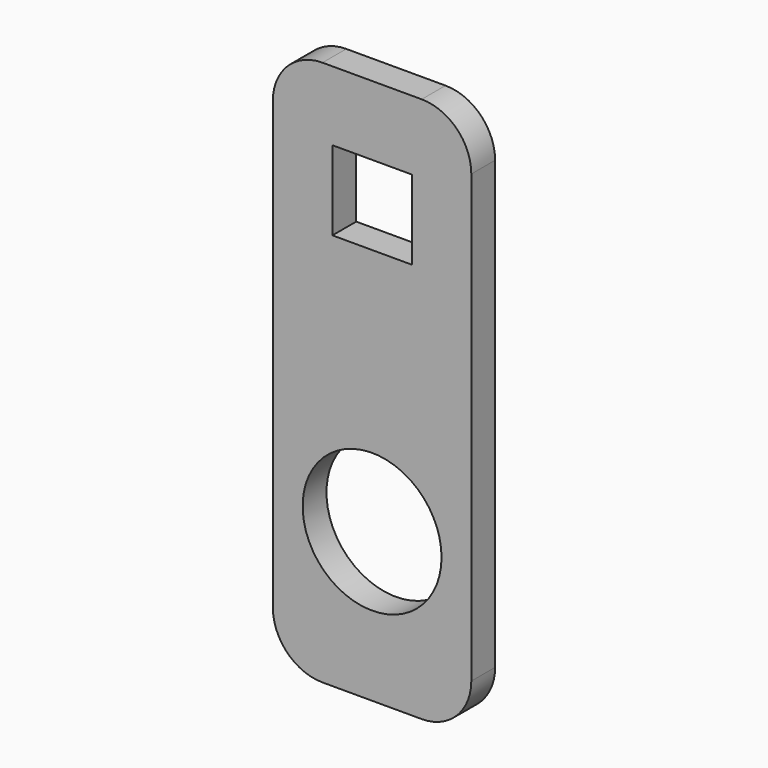
from build123d import *

# Parameters (mm, degrees)
F0_R     = 7
F0_W     = 8
F0_H     = 8
F1_DEPTH = 3


with BuildPart() as f1:
    # F0 (on Front) → F1 (new body)
    with BuildSketch(Plane.XZ):
        with BuildLine():
            ThreePointArc((10, 20), (8.535534, 23.535534), (5, 25))
            Line((5, 25), (-5, 25))
            ThreePointArc((-5, 25), (-8.535534, 23.535534), (-10, 20))
            Line((-10, 20), (-10, -25))
            ThreePointArc((-10, -25), (-8.535534, -28.535534), (-5, -30))
            Line((-5, -30), (5, -30))
            ThreePointArc((5, -30), (8.535534, -28.535534), (10, -25))
            Line((10, -25), (10, 20))
        make_face()
        with Locations((0, -15)):
            Circle(F0_R, mode=Mode.SUBTRACT)
        with Locations((0, 14)):
            Rectangle(F0_W, F0_H, mode=Mode.SUBTRACT)
    extrude(amount=F1_DEPTH)


solid = f1.part
